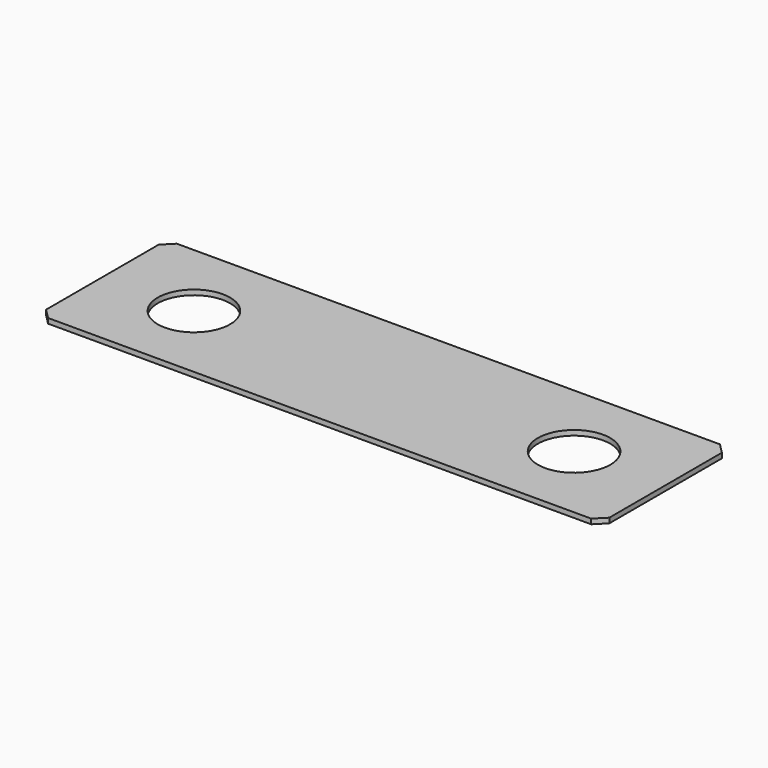
from build123d import *

# Parameters (mm, degrees)
F0_W     = 28
F0_H     = 8
F1_DEPTH = 0.25
F2_SIZE  = 0.5
F3_R     = 1.8
F4_DEPTH = 0.251


with BuildPart() as f1:
    # F0 (on Top) → F1 (new body)
    with BuildSketch(Plane.XY):
        Rectangle(F0_W, F0_H)
    extrude(amount=F1_DEPTH)

    # F2
    f2_edges = [f1.edges().sort_by_distance(p)[0] for p in [
        (-14, -4, 0.125),
        (-14, 4, 0.125),
        (14, -4, 0.125),
        (14, 4, 0.125),
    ]]
    chamfer(f2_edges, length=F2_SIZE)

    # F3 (on face) → F4 (cut, through all)
    with BuildSketch(Plane.XY.offset(0.25)):
        with Locations((-9.45, 0)):
            Circle(F3_R)
        with Locations((9.45, 0)):
            Circle(F3_R)
    extrude(amount=-F4_DEPTH, mode=Mode.SUBTRACT)


solid = f1.part
